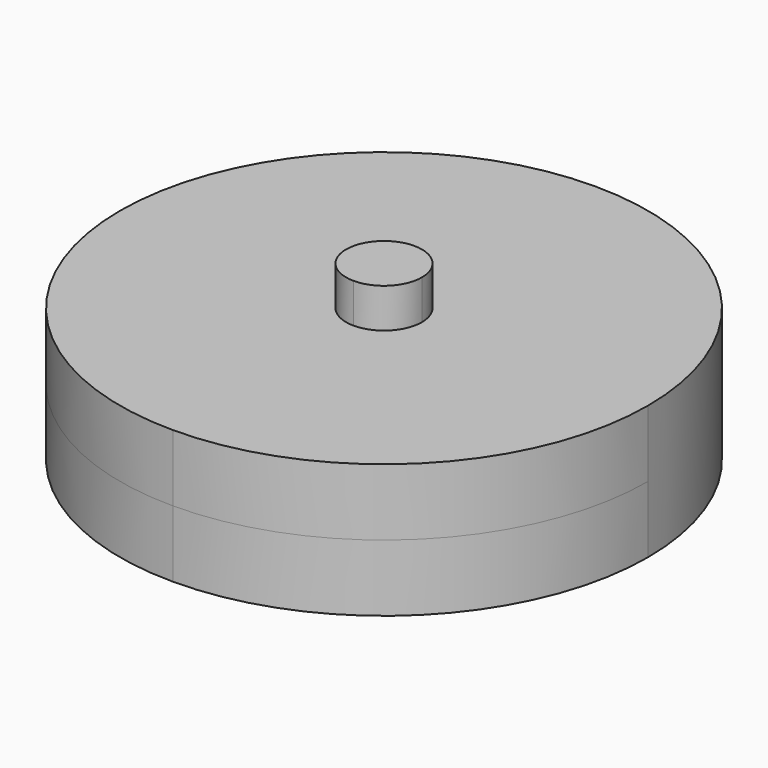
from build123d import *

# Parameters (mm, degrees)
F1_DEPTH = 2.2
F2_DEPTH = 3.5


with BuildPart() as f1:
    # F0 (on Top) → F1 (new body, symmetric)
    with BuildSketch(Plane.XY):
        with BuildLine():
            Line((-27.9816011338, 0), (-20.5316011338, 0))
            ThreePointArc((-20.5316011338, 0), (-23.0797721375, 6.1518289963), (-29.2316011338, 8.7))
            Line((-29.2316011338, 8.7), (-29.2316011338, 1.25))
            ThreePointArc((-29.2316011338, 1.25), (-28.3477176573, 0.8838834765), (-27.9816011338, 0))
        make_face()
        with BuildLine():
            Line((-29.2316011338, 1.25), (-29.2316011338, 8.7))
            ThreePointArc((-29.2316011338, 8.7), (-35.3834301302, 6.1518289963), (-37.9316011338, 0))
            Line((-37.9316011338, 0), (-30.4816011338, 0))
            ThreePointArc((-30.4816011338, 0), (-30.1154846103, 0.8838834765), (-29.2316011338, 1.25))
        make_face()
        with BuildLine():
            ThreePointArc((-37.9316011338, 0), (-35.3834301302, -6.1518289963), (-29.2316011338, -8.7))
            Line((-29.2316011338, -8.7), (-29.2316011338, -1.25))
            ThreePointArc((-29.2316011338, -1.25), (-30.1154846103, -0.8838834765), (-30.4816011338, 0))
            Line((-30.4816011338, 0), (-37.9316011338, 0))
        make_face()
        with BuildLine():
            ThreePointArc((-29.2316011338, -8.7), (-23.0797721375, -6.1518289963), (-20.5316011338, 0))
            Line((-20.5316011338, 0), (-27.9816011338, 0))
            ThreePointArc((-27.9816011338, 0), (-28.3477176573, -0.8838834765), (-29.2316011338, -1.25))
            Line((-29.2316011338, -1.25), (-29.2316011338, -8.7))
        make_face()
    extrude(amount=F1_DEPTH, both=True)

    # F0 (on Top) → F2 (join, symmetric)
    with BuildSketch(Plane.XY):
        with BuildLine():
            ThreePointArc((-29.2316011338, -1.25), (-28.3477176573, -0.8838834765), (-27.9816011338, 0))
            Line((-27.9816011338, 0), (-29.2316011338, 0))
            Line((-29.2316011338, 0), (-29.2316011338, -1.25))
        make_face()
        with BuildLine():
            Line((-29.2316011338, 0), (-27.9816011338, 0))
            ThreePointArc((-27.9816011338, 0), (-28.3477176573, 0.8838834765), (-29.2316011338, 1.25))
            Line((-29.2316011338, 1.25), (-29.2316011338, 0))
        make_face()
        with BuildLine():
            Line((-29.2316011338, 0), (-29.2316011338, 1.25))
            ThreePointArc((-29.2316011338, 1.25), (-30.1154846103, 0.8838834765), (-30.4816011338, 0))
            Line((-30.4816011338, 0), (-29.2316011338, 0))
        make_face()
        with BuildLine():
            ThreePointArc((-30.4816011338, 0), (-30.1154846103, -0.8838834765), (-29.2316011338, -1.25))
            Line((-29.2316011338, -1.25), (-29.2316011338, 0))
            Line((-29.2316011338, 0), (-30.4816011338, 0))
        make_face()
    extrude(amount=F2_DEPTH, both=True)


solid = f1.part
